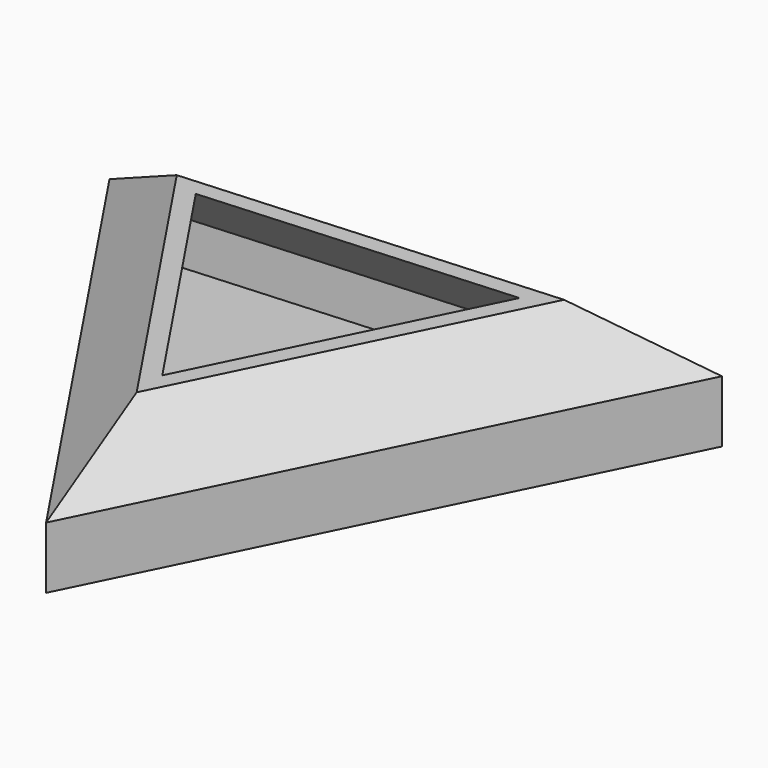
from build123d import *

# Parameters (mm, degrees)
F1_DEPTH = 25.4
F2_SIZE  = 12.7
F3_T     = -2.54


with BuildPart() as f1:
    # F0 (on Top) → F1 (new body)
    with BuildSketch(Plane.XY):
        Polygon((4.5641, -68.949298), (57.429793, 38.427275), (-61.993893, 30.522022), align=None)
    extrude(amount=F1_DEPTH)

    # F2
    f2_edges = [f1.edges().sort_by_distance(p)[0] for p in [
        (30.996947, -15.261011, 25.4),
        (-28.714897, -19.213638, 25.4),
        (-2.28205, 34.474649, 25.4),
    ]]
    chamfer(f2_edges, length=F2_SIZE)

    # F3
    f3_openings = [f1.faces().sort_by_distance(p)[0] for p in [
        (0, 0, 25.4),
    ]]
    offset(amount=F3_T, openings=f3_openings)


solid = f1.part
